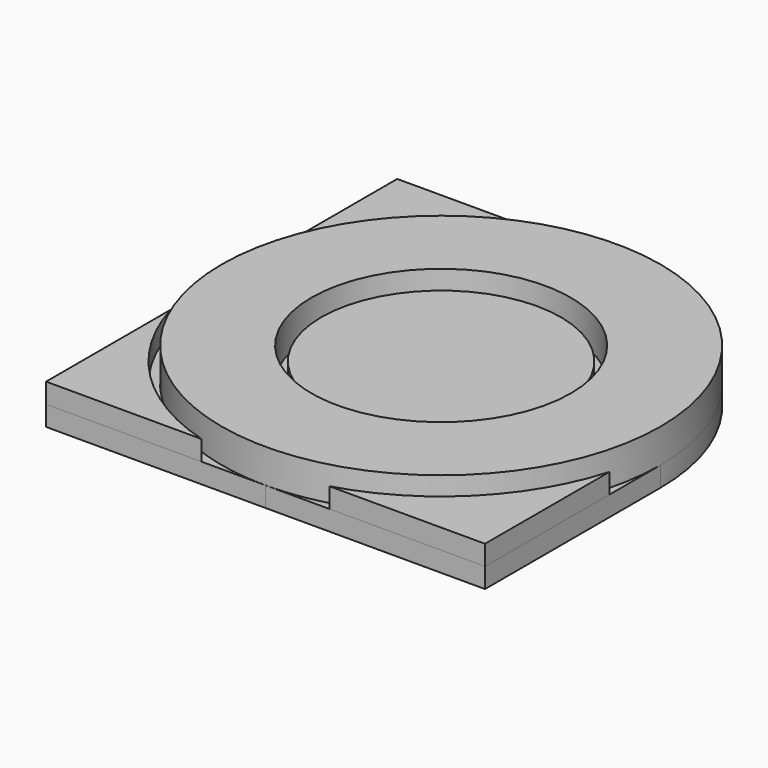
from build123d import *

# Parameters (mm, degrees)
F0_R     = 11
F0_R_2   = 6.5
F1_DEPTH = 1.7
F2_DEPTH = 1
F0_R_3   = 6
F4_DEPTH = 1
F5_R     = 5.75
F5_R_2   = 4.05
F6_DEPTH = 0.5
F7_DEPTH = 4


with BuildPart() as f1:
    # F0 (on Top) → F1 (new body)
    with BuildSketch(Plane.XY):
        Circle(F0_R)
        Circle(F0_R_2, mode=Mode.SUBTRACT)
    extrude(amount=F1_DEPTH)


with BuildPart() as f2:
    # F0 (on Top) → F2 (new body)
    with BuildSketch(Plane.XY):
        with BuildLine():
            Line((-11, 11), (-11, 3.1997503247))
            ThreePointArc((-11, 3.1997503247), (-8.1005679474, 8.1005679474), (-3.1997503247, 11))
            Line((-3.1997503247, 11), (-11, 11))
        make_face()
    extrude(amount=F2_DEPTH)


with BuildPart() as f2b:
    # F0 (on Top) → F2, piece 2 (new body)
    with BuildSketch(Plane.XY):
        Circle(F0_R_3)
    extrude(amount=F2_DEPTH)


with BuildPart() as f2c:
    # F0 (on Top) → F2, piece 3 (new body)
    with BuildSketch(Plane.XY):
        with BuildLine():
            ThreePointArc((-3.1997503247, -11), (-8.1005679474, -8.1005679474), (-11, -3.1997503247))
            Line((-11, -3.1997503247), (-11, -11))
            Line((-11, -11), (-3.1997503247, -11))
        make_face()
    extrude(amount=F2_DEPTH)


with BuildPart() as f2d:
    # F0 (on Top) → F2, piece 4 (new body)
    with BuildSketch(Plane.XY):
        with BuildLine():
            ThreePointArc((11, -3.1997503247), (8.1005679474, -8.1005679474), (3.1997503247, -11))
            Line((3.1997503247, -11), (11, -11))
            Line((11, -11), (11, -3.1997503247))
        make_face()
    extrude(amount=F2_DEPTH)


with BuildPart() as f4:
    # F0 (on Top) → F4 (new body)
    with BuildSketch(Plane.XY):
        with BuildLine():
            Line((-11, 11), (-11, 3.1997503247))
            ThreePointArc((-11, 3.1997503247), (-8.1005679474, 8.1005679474), (-3.1997503247, 11))
            Line((-3.1997503247, 11), (-11, 11))
        make_face()
    extrude(amount=-F4_DEPTH)


with BuildPart() as f4b:
    # F0 (on Top) → F4, piece 2 (new body)
    with BuildSketch(Plane.XY):
        Circle(F0_R)
        Circle(F0_R_2, mode=Mode.SUBTRACT)
        Circle(F0_R_2)
        Circle(F0_R_3, mode=Mode.SUBTRACT)
        Circle(F0_R_3)
    extrude(amount=-F4_DEPTH)

    # F5 (on face) → F6 (join)
    with BuildSketch(Plane(origin=(0, 0, -1), x_dir=(1, 0, 0), z_dir=(0, 0, -1))):
        Circle(F5_R)
        Circle(F5_R_2, mode=Mode.SUBTRACT)
    extrude(amount=F6_DEPTH)

    # F7 (add): a face of the model
    f7_faces = [f4b.faces().sort_by_distance(p)[0] for p in [
        (0, 0, -1),
    ]]
    extrude(f7_faces, amount=F7_DEPTH)


with BuildPart() as f4c:
    # F0 (on Top) → F4, piece 3 (new body)
    with BuildSketch(Plane.XY):
        with BuildLine():
            ThreePointArc((11, -3.1997503247), (8.1005679474, -8.1005679474), (3.1997503247, -11))
            Line((3.1997503247, -11), (11, -11))
            Line((11, -11), (11, -3.1997503247))
        make_face()
    extrude(amount=-F4_DEPTH)


with BuildPart() as f4d:
    # F3 (on face) → F4, piece 4 (new body)
    with BuildSketch(Plane.XY):
        with BuildLine():
            Line((-11, 3.1997503247), (-11, 0))
            ThreePointArc((-11, 0), (-7.7781745931, 7.7781745931), (0, 11))
            Line((0, 11), (-3.1997503247, 11))
            ThreePointArc((-3.1997503247, 11), (-8.1005679474, 8.1005679474), (-11, 3.1997503247))
        make_face()
    extrude(amount=-F4_DEPTH)


with BuildPart() as f4e:
    # F3 (on face) → F4, piece 5 (new body)
    with BuildSketch(Plane.XY):
        with BuildLine():
            Line((-3.1997503247, -11), (0, -11))
            ThreePointArc((0, -11), (-7.7781745931, -7.7781745931), (-11, 0))
            Line((-11, 0), (-11, -3.1997503247))
            Line((-11, -3.1997503247), (-11, -11))
            Line((-11, -11), (-3.1997503247, -11))
        make_face()
    extrude(amount=-F4_DEPTH)


with BuildPart() as f4f:
    # F3 (on face) → F4, piece 6 (new body)
    with BuildSketch(Plane.XY):
        with BuildLine():
            Line((0, -11), (3.1997503247, -11))
            Line((3.1997503247, -11), (11, -11))
            Line((11, -11), (11, -3.1997503247))
            Line((11, -3.1997503247), (11, 0))
            ThreePointArc((11, 0), (7.7781745931, -7.7781745931), (0, -11))
        make_face()
    extrude(amount=-F4_DEPTH)


solid = Compound([f1.part, f2.part, f2b.part, f2c.part, f2d.part, f4.part, f4b.part, f4c.part, f4d.part, f4e.part, f4f.part])
